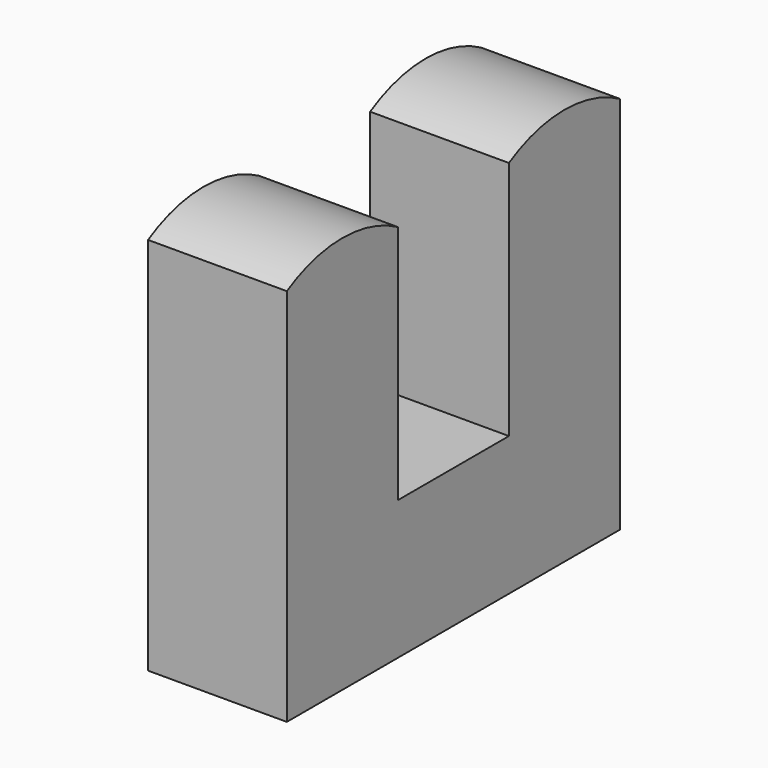
from build123d import *

# Parameters (mm, degrees)
F1_DEPTH = 1


with BuildPart() as f1:
    # F0 (on Right) → F1 (new body)
    with BuildSketch(Plane.YZ):
        with BuildLine():
            Line((0.5, -0.866025), (0.5, 0.866025))
            ThreePointArc((0.5, 0.866025), (0, 1), (-0.5, 0.866025))
            Line((-0.5, 0.866025), (-0.5, -0.866025))
            Line((-0.5, -0.866025), (-0.5, -1.866025))
            Line((-0.5, -1.866025), (2.5, -1.866025))
            Line((2.5, -1.866025), (2.5, -0.866025))
            Line((2.5, -0.866025), (2.5, 0.866025))
            ThreePointArc((2.5, 0.866025), (2, 1), (1.5, 0.866025))
            Line((1.5, 0.866025), (1.5, -0.866025))
            Line((1.5, -0.866025), (0.5, -0.866025))
        make_face()
    extrude(amount=F1_DEPTH)


solid = f1.part
